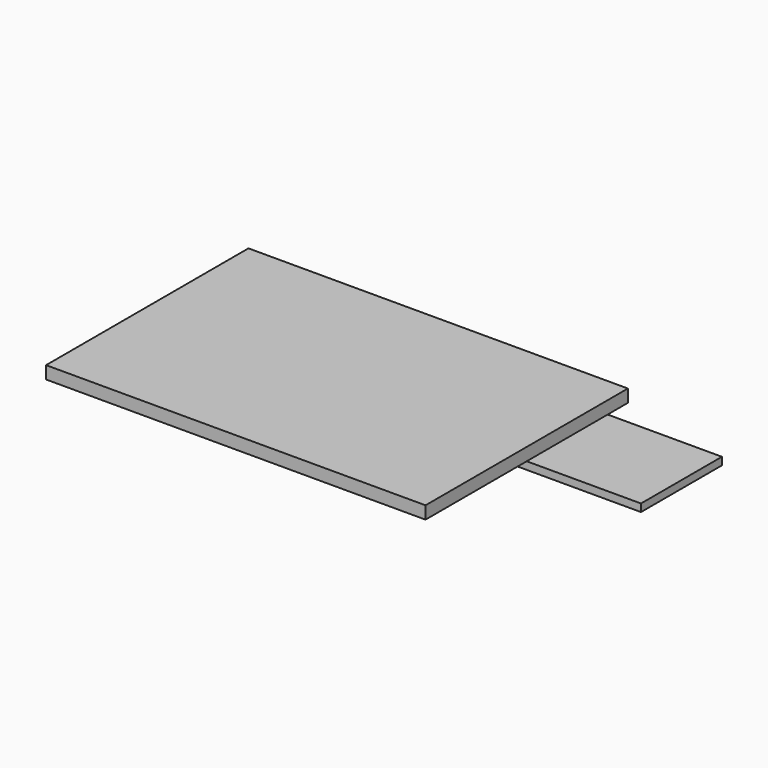
from build123d import *

# Parameters (mm, degrees)
F0_W     = 381
F0_H     = 12.7
F1_DEPTH = 254
F2_W     = 101.6
F2_H     = 7.62
F3_DEPTH = 152.4
F4_DEPTH = 304.8


with BuildPart() as f1:
    # F0 (on Front) → F1 (new body)
    with BuildSketch(Plane.XZ):
        with Locations((-0.444053, 0.088979)):
            Rectangle(F0_W, F0_H)
    extrude(amount=F1_DEPTH)


with BuildPart() as f3:
    # F2 (on Right) → F3 (new body)
    with BuildSketch(Plane.YZ):
        with Locations((-76.2, -10.071021)):
            Rectangle(F2_W, F2_H)
    extrude(amount=F3_DEPTH)


with BuildPart() as f4:
    # F2 (on Right) → F4 (new body)
    with BuildSketch(Plane.YZ):
        with Locations((-76.2, -10.071021)):
            Rectangle(F2_W, F2_H)
    extrude(amount=F4_DEPTH)


solid = Compound([f1.part, f3.part, f4.part])
